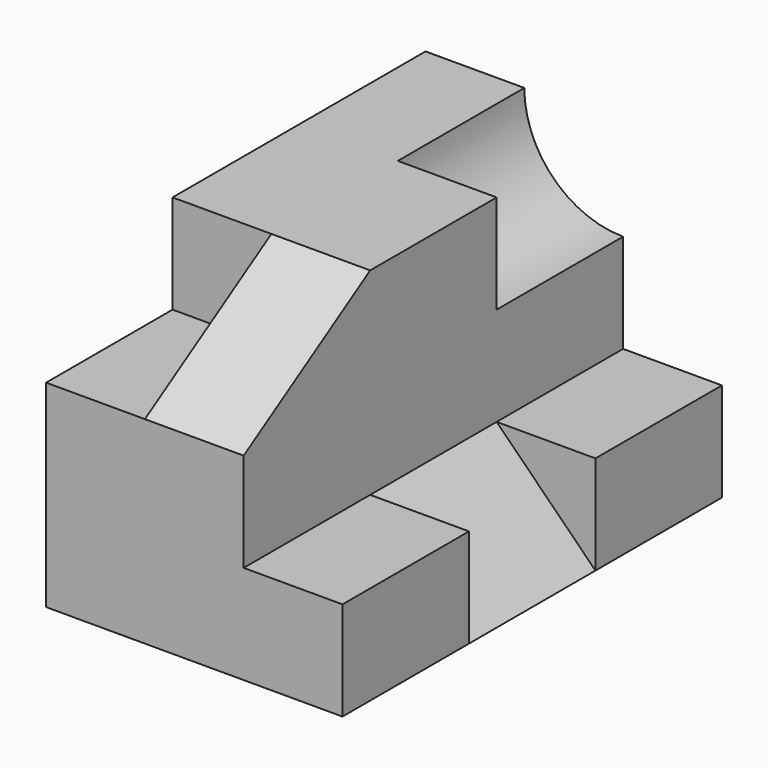
from build123d import *

# Parameters (mm, degrees)
F1_DEPTH = 24
F3_DEPTH = 8
F5_DEPTH = 30.001
F6_DEPTH = 10
F7_R     = 10
F8_DEPTH = 16


with BuildPart() as f1:
    # F0 (on Front) → F1 (new body, symmetric)
    with BuildSketch(Plane.XZ):
        Polygon((0, 30), (0, 0), (30, 0), (30, 10), (20, 10), (20, 30), align=None)
    extrude(amount=F1_DEPTH, both=True)

    # F2 (on Front) → F3 (cut, symmetric)
    with BuildSketch(Plane.XZ):
        Polygon((30, 0), (30, 10), (20, 10), align=None)
    extrude(amount=F3_DEPTH, both=True, mode=Mode.SUBTRACT)

    # F4 (on face) → F5 (cut, through all)
    with BuildSketch(Plane(origin=(0, 0, 0), x_dir=(0, -1, 0), z_dir=(-1, 0, 0))):
        Polygon((24, 20), (24, 30), (8, 30), align=None)
    extrude(amount=-F5_DEPTH, mode=Mode.SUBTRACT)

    # F4 (on face) → F6 (cut)
    with BuildSketch(Plane(origin=(0, 0, 0), x_dir=(0, -1, 0), z_dir=(-1, 0, 0))):
        Polygon((24, 20), (8, 30), (8, 20), align=None)
    extrude(amount=-F6_DEPTH, mode=Mode.SUBTRACT)

    # F7 (on face) → F8 (cut)
    with BuildSketch(Plane(origin=(0, 24, 0), x_dir=(-1, 0, 0), z_dir=(0, 1, 0))):
        with Locations((-20, 30)):
            Circle(F7_R)
    extrude(amount=-F8_DEPTH, mode=Mode.SUBTRACT)


solid = f1.part
